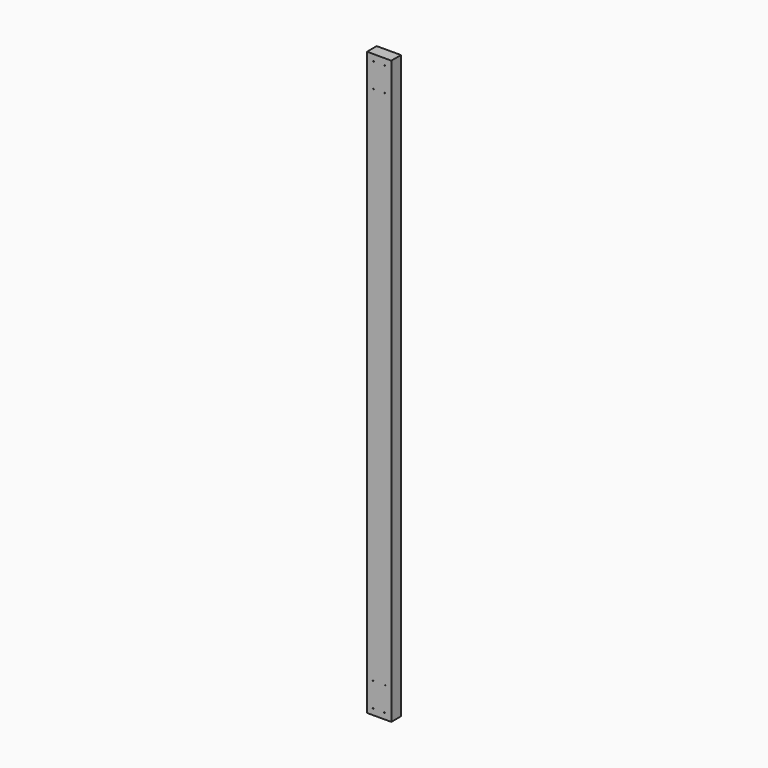
from build123d import *

# Parameters (mm, degrees)
F0_W     = 101.6
F0_H     = 2438.4
F0_R     = 1.5875
F1_DEPTH = 50.8


with BuildPart() as f1:
    # F0 (on Front) → F1 (new body)
    with BuildSketch(Plane.XZ):
        with Locations((2.017058, 1193.8)):
            Rectangle(F0_W, F0_H)
        with Locations((-23.382942, 0)):
            Circle(F0_R, mode=Mode.SUBTRACT)
        with Locations((-23.382942, 101.6)):
            Circle(F0_R, mode=Mode.SUBTRACT)
        with Locations((24.18213, 0)):
            Circle(F0_R, mode=Mode.SUBTRACT)
        with Locations((27.417058, 101.6)):
            Circle(F0_R, mode=Mode.SUBTRACT)
        with Locations((-21.795442, 2284.4125)):
            Circle(F0_R, mode=Mode.SUBTRACT)
        with Locations((-21.795442, 2386.0125)):
            Circle(F0_R, mode=Mode.SUBTRACT)
        with Locations((25.829558, 2284.4125)):
            Circle(F0_R, mode=Mode.SUBTRACT)
        with Locations((25.829558, 2386.0125)):
            Circle(F0_R, mode=Mode.SUBTRACT)
    extrude(amount=F1_DEPTH)


solid = f1.part
